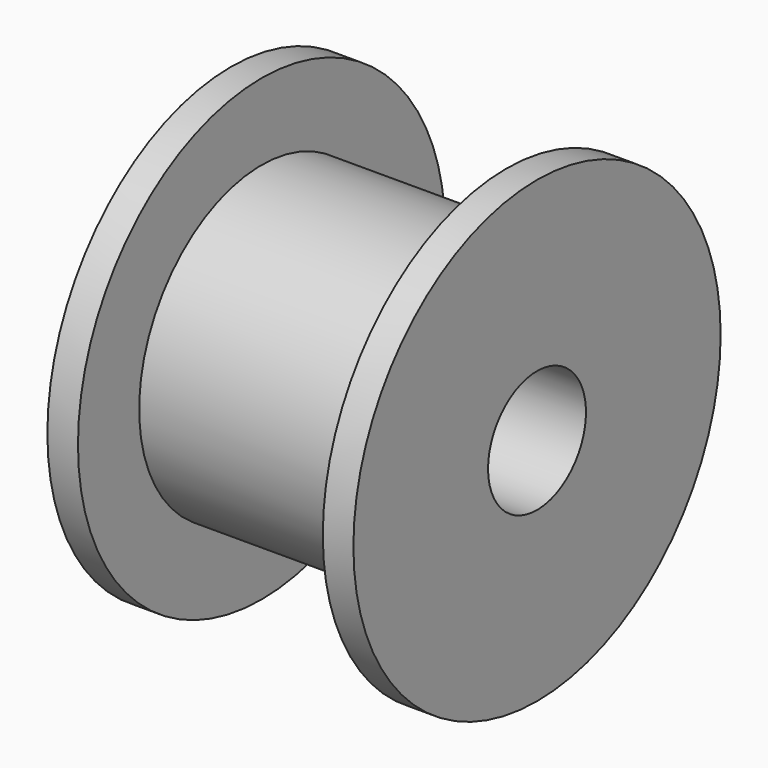
from build123d import *

# Parameters (mm, degrees)
F0_R     = 25
F1_DEPTH = 20
F2_R     = 37.5
F2_R_2   = 25
F3_DEPTH = 5
F6_D     = 20
F6_DEPTH = 250


with BuildPart() as f1:
    # F0 (on Right) → F1 (new body)
    with BuildSketch(Plane.YZ):
        Circle(F0_R)
    extrude(amount=F1_DEPTH)

    # F2 (on face) → F3 (join)
    with BuildSketch(Plane.YZ.offset(20)):
        Circle(F2_R)
        Circle(F2_R_2, mode=Mode.SUBTRACT)
        Circle(F2_R_2)
    extrude(amount=F3_DEPTH)

    # F4: F1 across face


with BuildPart() as f1_1:
    add(f1.part)
    add(f1.part.mirror(Plane(origin=(0, 0, 0), x_dir=(0, 1, 0), z_dir=(-1, 0, 0))))

    # F6
    with Locations(Plane.YZ.offset(25)):
        with Locations((0, 0)):
            Hole(F6_D / 2, depth=F6_DEPTH)


solid = f1_1.part
